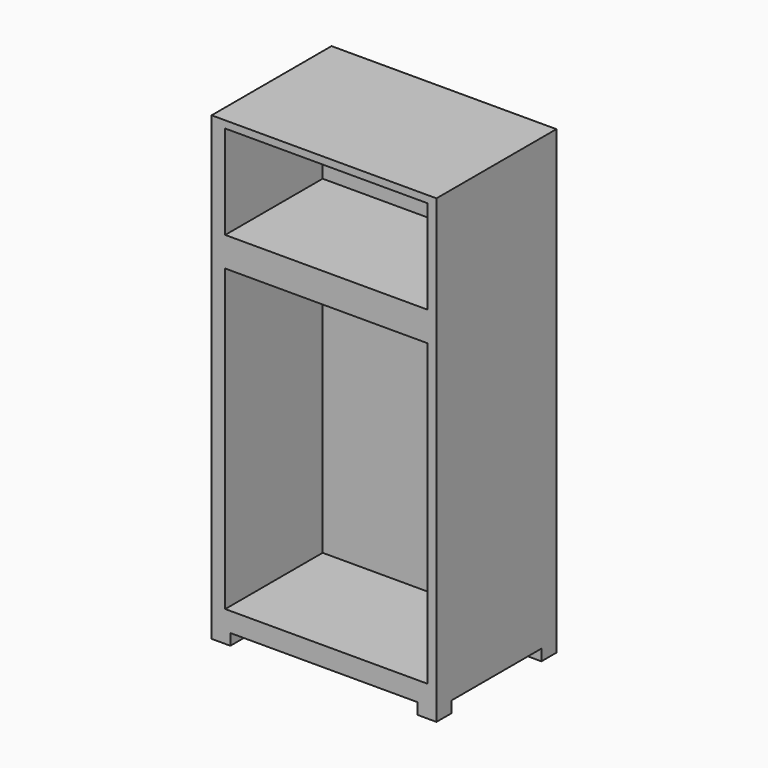
from build123d import *

# Parameters (mm, degrees)
F0_W     = 152.4
F0_H     = 304.8
F1_DEPTH = 50.8
F2_W     = 137.16
F2_H     = 63.5
F2_H_2   = 203.2
F3_DEPTH = 82.55
F4_W     = 12.7
F4_H     = 12.7
F5_DEPTH = 7.62


with BuildPart() as f1:
    # F0 (on Front) → F1 (new body, symmetric)
    with BuildSketch(Plane.XZ):
        Rectangle(F0_W, F0_H)
    extrude(amount=F1_DEPTH, both=True)

    # F2 (on face) → F3 (cut)
    with BuildSketch(Plane.XZ.offset(50.8)):
        with Locations((1.597112, 115.759528)):
            Rectangle(F2_W, F2_H)
        with Locations((1.597112, -37.619612)):
            Rectangle(F2_W, F2_H_2)
    extrude(amount=-F3_DEPTH, mode=Mode.SUBTRACT)

    # F4 (on face) → F5 (join)
    with BuildSketch(Plane(origin=(0, 0, -152.4), x_dir=(1, 0, 0), z_dir=(0, 0, -1))):
        with Locations((-69.85, 44.45)):
            Rectangle(F4_W, F4_H)
        with Locations((69.85, 44.45)):
            Rectangle(F4_W, F4_H)
        with Locations((-69.85, -44.45)):
            Rectangle(F4_W, F4_H)
        with Locations((69.85, -44.45)):
            Rectangle(F4_W, F4_H)
    extrude(amount=F5_DEPTH)


solid = f1.part
